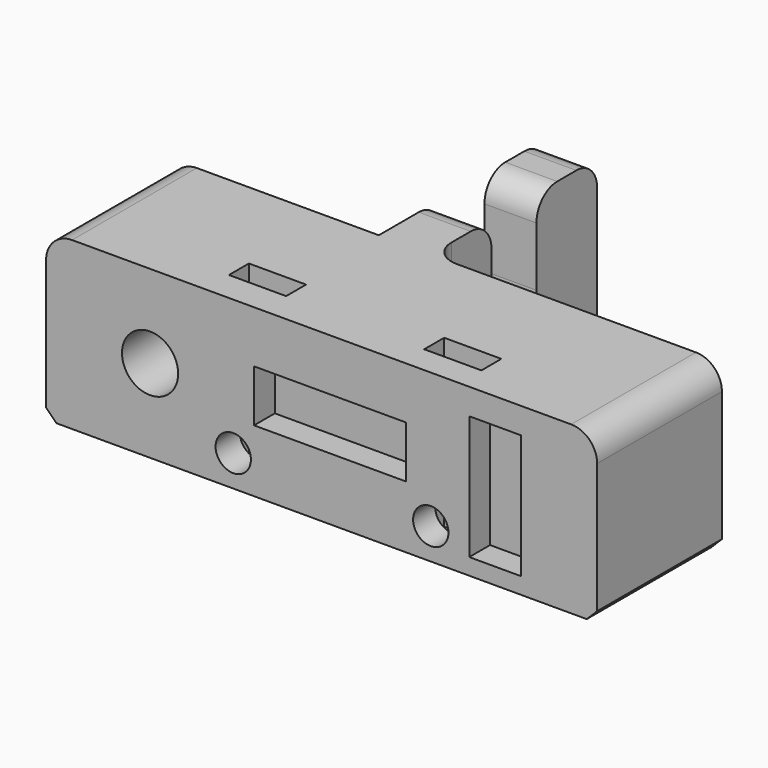
from build123d import *

# Parameters (mm, degrees)
F1_DEPTH  = 16
F2_R      = 1.7
F3_DEPTH  = 25
F5_DEPTH  = 25
F2_W      = 14.61311616
F2_H      = 5
F2_W_2    = 5
F2_H_2    = 11.9260823121
F6_DEPTH  = 2.5
F7_W      = 5.4
F7_H      = 10.7
F8_DEPTH  = 25
F9_R      = 2.5
F10_SIZE  = 1
F2_R_2    = 2.7
F11_DEPTH = 25


with BuildPart() as f1:
    # F0 (on Top) → F1 (new body)
    with BuildSketch(Plane.XY):
        Polygon((5, 20), (0, 20), (0, 0), (-20, 0), (-20, -15), (33, -15), (33, 0), (5, 0), align=None)
    extrude(amount=F1_DEPTH)

    # F2 (on face) → F3 (cut)
    with BuildSketch(Plane.XZ.offset(15)):
        with Locations((17, 3)):
            Circle(F2_R)
        with Locations((-2, 3)):
            Circle(F2_R)
    extrude(amount=-F3_DEPTH, mode=Mode.SUBTRACT)

    # F4 (on face) → F5 (cut)
    with BuildSketch(Plane(origin=(0, 0, 0), x_dir=(1, 0, 0), z_dir=(0, 0, -1))):
        Polygon((19.75, 12.3516352639), (17, 12.3516352639), (14.25, 12.3516352639), (14.25, 9.9516352639), (17, 9.9516352639), (19.75, 9.9516352639), align=None)
        Polygon((0.75, 12.0808439121), (-2, 12.0808439121), (-4.75, 12.0808439121), (-4.75, 9.6808439121), (-2, 9.6808439121), (0.75, 9.6808439121), align=None)
    extrude(amount=-F5_DEPTH, mode=Mode.SUBTRACT)

    # F2 (on face) → F6 (cut)
    with BuildSketch(Plane.XZ.offset(15)):
        with Locations((7.30655808, 8.5)):
            Rectangle(F2_W, F2_H)
        with Locations((23.2, 7.5428758864)):
            Rectangle(F2_W_2, F2_H_2)
    extrude(amount=-F6_DEPTH, mode=Mode.SUBTRACT)

    # F7 (on face) → F8 (cut)
    with BuildSketch(Plane.YZ.offset(5)):
        with Locations((10, 10.65)):
            Rectangle(F7_W, F7_H)
    extrude(amount=-F8_DEPTH, mode=Mode.SUBTRACT)

    # F9
    f9_edges = [f1.edges().sort_by_distance(p)[0] for p in [
        (2.5, 7.3, 5.3),
        (2.5, 12.7, 5.3),
        (2.5, 20, 16),
        (-20, -7.5, 16),
        (33, -7.5, 16),
        (2.5, 12.7, 16),
        (2.5, 7.3, 16),
        (5, 0, 8),
    ]]
    fillet(f9_edges, radius=F9_R)

    # F10
    f10_edges = [f1.edges().sort_by_distance(p)[0] for p in [
        (7.306558, -12.5, 11),
        (23.2, -12.5, 13.505917),
        (33, -7.5, 0),
        (-20, -7.5, 0),
        (2.5, 20, 0),
    ]]
    chamfer(f10_edges, length=F10_SIZE)

    # F2 (on face) → F11 (cut)
    with BuildSketch(Plane.XZ.offset(15)):
        with Locations((-10, 8)):
            Circle(F2_R_2)
    extrude(amount=-F11_DEPTH, mode=Mode.SUBTRACT)


solid = f1.part
